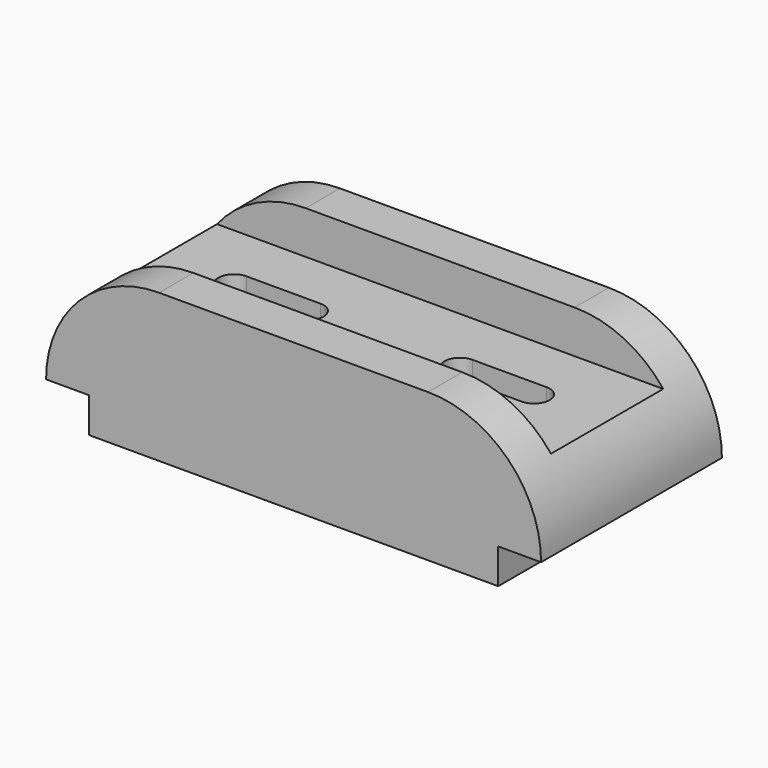
from build123d import *

# Parameters (mm, degrees)
F1_DEPTH = 58
F2_W     = 127
F2_H     = 36
F3_DEPTH = 11
F5_DEPTH = 27.001


with BuildPart() as f1:
    # F0 (on Front) → F1 (new body)
    with BuildSketch(Plane.XZ):
        with BuildLine():
            Line((-52.5, 0), (0, 0))
            Line((0, 0), (52.5, 0))
            Line((52.5, 0), (52.5, 9))
            Line((52.5, 9), (63.5, 9))
            ThreePointArc((63.5, 9), (55.006097, 29.506097), (34.5, 38))
            Line((34.5, 38), (0, 38))
            Line((0, 38), (-34.5, 38))
            ThreePointArc((-34.5, 38), (-55.006097, 29.506097), (-63.5, 9))
            Line((-63.5, 9), (-52.5, 9))
            Line((-52.5, 9), (-52.5, 0))
        make_face()
    extrude(amount=F1_DEPTH)

    # F2 (on face) → F3 (cut)
    with BuildSketch(Plane.XY.offset(38)):
        with Locations((0, -29)):
            Rectangle(F2_W, F2_H)
    extrude(amount=-F3_DEPTH, mode=Mode.SUBTRACT)

    # F4 (on face) → F5 (cut, through all)
    with BuildSketch(Plane.XY.offset(27)):
        with BuildLine():
            Line((-19.5, -25), (-38.5, -25))
            ThreePointArc((-38.5, -25), (-42.5, -29), (-38.5, -33))
            Line((-38.5, -33), (-19.5, -33))
            ThreePointArc((-19.5, -33), (-15.5, -29), (-19.5, -25))
        make_face()
        with BuildLine():
            ThreePointArc((38.5, -33), (42.5, -29), (38.5, -25))
            Line((38.5, -25), (19.5, -25))
            ThreePointArc((19.5, -25), (15.5, -29), (19.5, -33))
            Line((19.5, -33), (38.5, -33))
        make_face()
    extrude(amount=-F5_DEPTH, mode=Mode.SUBTRACT)


solid = f1.part
